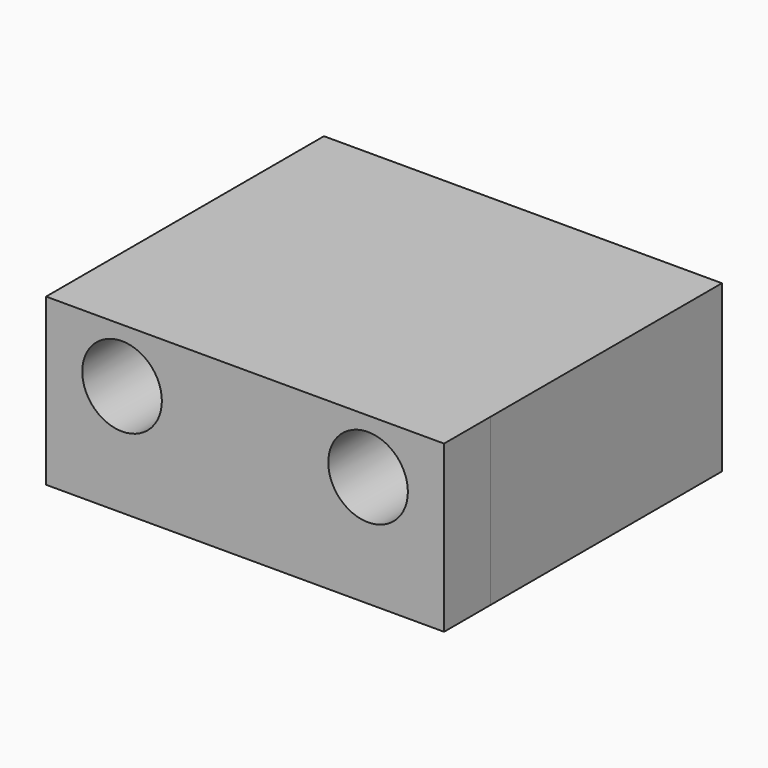
from build123d import *

# Parameters (mm, degrees)
SKETCH018_R     = 1.75
PAD009_DEPTH    = 20
SKETCH019_W     = 27.500439
SKETCH019_H     = 11.45
SKETCH019_R     = 1.75
PAD010_DEPTH    = 4
SKETCH020_R     = 2.75
POCKET009_DEPTH = 8


with BuildPart() as part:
    # Sketch018 (on Face27 of Binder005) → Pad009 (new body)
    with BuildSketch(Plane.XZ.offset(-32.95)):
        Polygon((-0.000439, 13.05), (27.5, 13.05), (27.5, 1.6), (20.338297, 1.6), (20.338297, 3.6), (5.278297, 3.6), (5.278297, 1.6), (-0.000439, 1.6), align=None)
        with Locations((5.24978, 9.3)):
            Circle(SKETCH018_R, mode=Mode.SUBTRACT)
        with Locations((22.24978, 9.3)):
            Circle(SKETCH018_R, mode=Mode.SUBTRACT)
    extrude(amount=PAD009_DEPTH)

    # Sketch019 (on Face12 of Pad009) → Pad010 (join)
    with BuildSketch(Plane.XZ.offset(-12.95)):
        with Locations((13.74978, 7.325)):
            Rectangle(SKETCH019_W, SKETCH019_H)
        with Locations((5.24978, 9.3)):
            Circle(SKETCH019_R, mode=Mode.SUBTRACT)
        with Locations((22.24978, 9.3)):
            Circle(SKETCH019_R, mode=Mode.SUBTRACT)
    extrude(amount=PAD010_DEPTH)

    # Sketch020 (on Face1 of Pad010) → Pocket009 (cut)
    with BuildSketch(Plane.XZ.offset(-8.95)):
        with Locations((22.24978, 9.3)):
            Circle(SKETCH020_R)
        with Locations((5.24978, 9.3)):
            Circle(SKETCH020_R)
    extrude(amount=-POCKET009_DEPTH, mode=Mode.SUBTRACT)


solid = part.part
